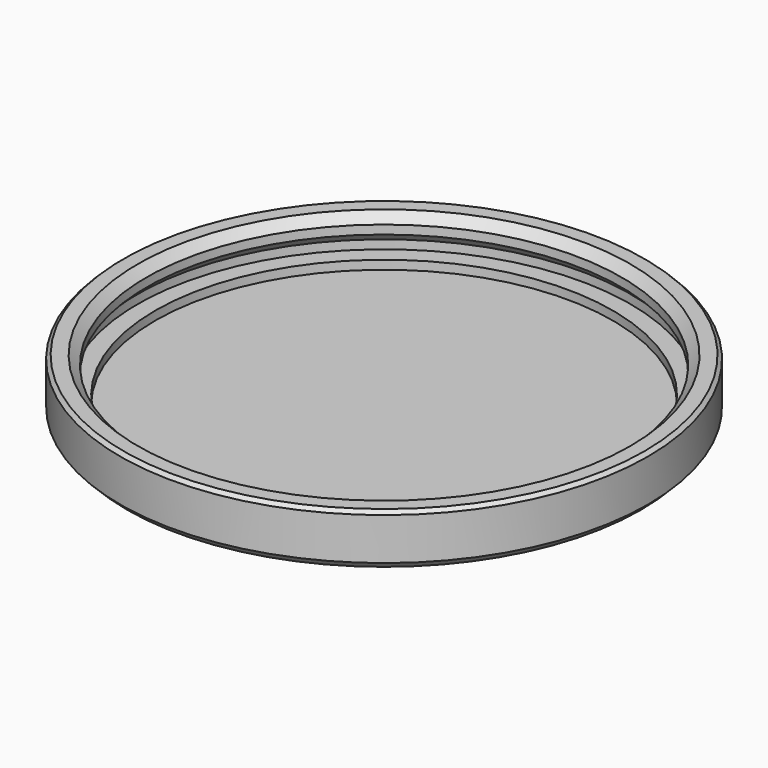
from build123d import *

# Parameters (mm, degrees)
CYLINDER003_R     = 14
CYLINDER003_DEPTH = 1
CHAMFER_SIZE      = 0.5
CYLINDER001_R     = 13
CYLINDER001_DEPTH = 3
CYLINDER002_R     = 13.5
CYLINDER002_DEPTH = 3
CYLINDER_R        = 15
CYLINDER_DEPTH    = 3
CHAMFER001_SIZE   = 0.5
CHAMFER005_SIZE   = 0.4
CHAMFER006_SIZE   = 0.2


with BuildPart() as chamfer_body:
    # Cylinder003 → Cylinder003 (new body)
    with BuildSketch(Plane.XY.offset(1)):
        Circle(CYLINDER003_R)
    extrude(amount=CYLINDER003_DEPTH)

    # Chamfer
    chamfer_edges = [chamfer_body.edges().sort_by_distance(p)[0] for p in [
        (-14, 0, 2),
    ]]
    chamfer(chamfer_edges, length=CHAMFER_SIZE)


with BuildPart() as cylinder001:
    # Cylinder001 → Cylinder001 (new body)
    with BuildSketch(Plane.XY.offset(0.5)):
        Circle(CYLINDER001_R)
    extrude(amount=CYLINDER001_DEPTH)


with BuildPart() as fusion:
    # Cylinder002 → Cylinder002 (new body)
    with BuildSketch(Plane.XY.offset(1)):
        Circle(CYLINDER002_R)
    extrude(amount=CYLINDER002_DEPTH)

    # Fusion: union Cylinder001
    add(cylinder001.part)


with BuildPart() as bottom:
    # Cylinder → Cylinder (new body)
    with BuildSketch(Plane.XY):
        Circle(CYLINDER_R)
    extrude(amount=CYLINDER_DEPTH)

    # Cut: cut Fusion
    add(fusion.part, mode=Mode.SUBTRACT)

    # Cut001: cut Chamfer body
    add(chamfer_body.part, mode=Mode.SUBTRACT)

    # Chamfer001
    chamfer001_edges = [bottom.edges().sort_by_distance(p)[0] for p in [
        (-13.5, 0, 3),
    ]]
    chamfer(chamfer001_edges, length=CHAMFER001_SIZE)

    # Chamfer005
    chamfer005_edges = [bottom.edges().sort_by_distance(p)[0] for p in [
        (-15, 0, 0),
    ]]
    chamfer(chamfer005_edges, length=CHAMFER005_SIZE)

    # Chamfer006
    chamfer006_edges = [bottom.edges().sort_by_distance(p)[0] for p in [
        (-15, 0, 3),
    ]]
    chamfer(chamfer006_edges, length=CHAMFER006_SIZE)


solid = bottom.part
